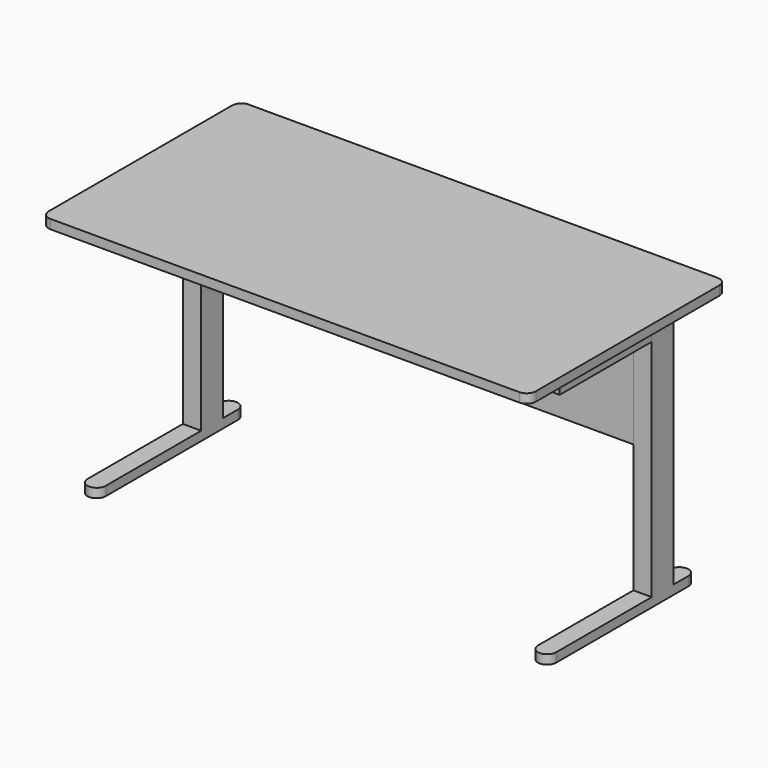
from build123d import *

# Parameters (mm, degrees)
F1_DEPTH  = 12.7
F3_W      = 50.8
F3_H      = 317.5
F4_DEPTH  = 38.1
F5_W      = 50.8
F5_H      = 76.2
F6_DEPTH  = 660.4
F7_W      = 50.8
F7_H      = 406.4
F7_H_2    = 50.8
F8_DEPTH  = 25.4
F9_W      = 1295.4
F9_H      = 25.4
F10_DEPTH = 304.8


with BuildPart() as f1:
    # F0 (on Top) → F1 (new body, symmetric)
    with BuildSketch(Plane.XY):
        with BuildLine():
            Line((-648.97, -342.9), (648.97, -342.9))
            ThreePointArc((648.97, -342.9), (666.930512, -335.460512), (674.37, -317.5))
            Line((674.37, -317.5), (674.37, 317.5))
            ThreePointArc((674.37, 317.5), (666.930512, 335.460512), (648.97, 342.9))
            Line((648.97, 342.9), (-648.97, 342.9))
            ThreePointArc((-648.97, 342.9), (-666.930512, 335.460512), (-674.37, 317.5))
            Line((-674.37, 317.5), (-674.37, -317.5))
            ThreePointArc((-674.37, -317.5), (-666.930512, -335.460512), (-648.97, -342.9))
        make_face()
    extrude(amount=F1_DEPTH, both=True)

    # F5 (on face) → F6 (join)
    with BuildSketch(Plane(origin=(0, 0, -12.7), x_dir=(1, 0, 0), z_dir=(0, 0, -1))):
        with Locations((-623.57, -153.208654)):
            Rectangle(F5_W, F5_H)
        with Locations((623.57, -153.208654)):
            Rectangle(F5_W, F5_H)
    extrude(amount=F6_DEPTH)

    # F7 (on face) → F8 (join)
    with BuildSketch(Plane(origin=(0, 0, -673.1), x_dir=(1, 0, 0), z_dir=(0, 0, -1))):
        with Locations((-623.57, 11.891346)):
            Rectangle(F7_W, F7_H)
        with Locations((-623.57, -216.708654)):
            Rectangle(F7_W, F7_H_2)
        with BuildLine():
            Line((-598.17, -242.108654), (-648.97, -242.108654))
            ThreePointArc((-648.97, -242.108654), (-623.57, -267.508654), (-598.17, -242.108654))
        make_face()
        with BuildLine():
            ThreePointArc((-598.17, 215.091346), (-623.57, 240.491346), (-648.97, 215.091346))
            Line((-648.97, 215.091346), (-598.17, 215.091346))
        make_face()
        with BuildLine():
            Line((598.17, 215.091346), (648.97, 215.091346))
            ThreePointArc((648.97, 215.091346), (623.57, 240.491346), (598.17, 215.091346))
        make_face()
        Polygon((648.97, -191.308654), (648.97, 215.091346), (598.17, 215.091346), (598.17, -191.308654), (598.17, -242.108654), (648.97, -242.108654), align=None)
        with BuildLine():
            ThreePointArc((598.17, -242.108654), (623.57, -267.508654), (648.97, -242.108654))
            Line((648.97, -242.108654), (598.17, -242.108654))
        make_face()
    extrude(amount=F8_DEPTH)

    # F9 (on face) → F10 (join)
    with BuildSketch(Plane(origin=(0, 0, -12.7), x_dir=(1, 0, 0), z_dir=(0, 0, -1))):
        with Locations((-0.760269, -127.911308)):
            Rectangle(F9_W, F9_H)
    extrude(amount=F10_DEPTH)


with BuildPart() as f4:
    # F3 (on face) → F4 (new body)
    with BuildSketch(Plane(origin=(0, 0, -12.7), x_dir=(1, 0, 0), z_dir=(0, 0, -1))):
        with Locations((-623.57, 44.45)):
            Rectangle(F3_W, F3_H)
        with Locations((623.57, 44.45)):
            Rectangle(F3_W, F3_H)
    extrude(amount=F4_DEPTH)


solid = Compound([f1.part, f4.part])
